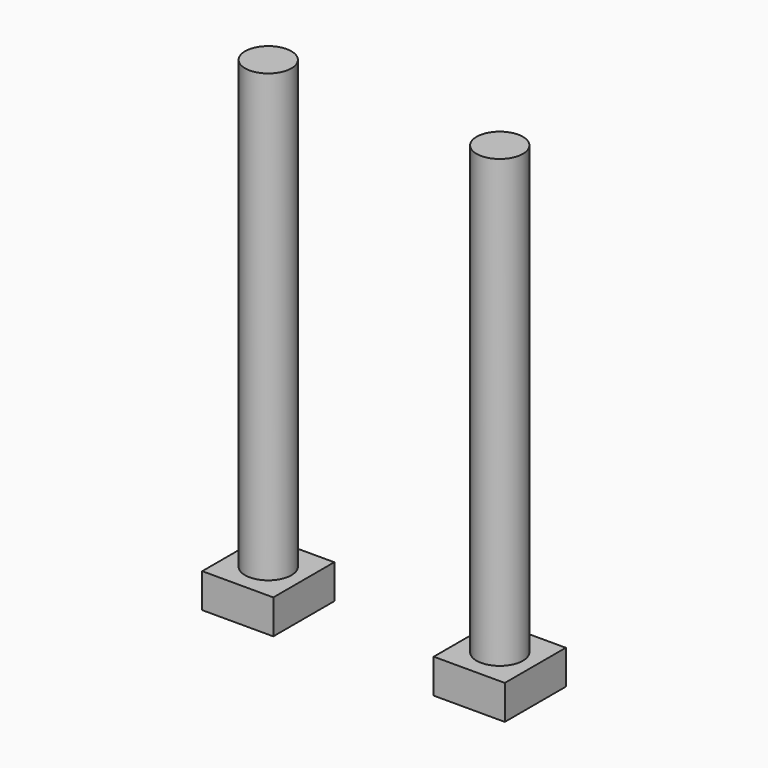
from build123d import *

# Parameters (mm, degrees)
F0_W     = 5.2578
F0_H     = 5.6388
F0_R     = 1.79705
F1_DEPTH = 2.54
F2_R     = 1.7145
F3_DEPTH = 33.02
F4_R     = 1.7145
F5_DEPTH = 33.02


with BuildPart() as f1:
    # F0 (on Top) → F1 (new body)
    with BuildSketch(Plane.XY):
        Rectangle(F0_W, F0_H)
        Circle(F0_R, mode=Mode.SUBTRACT)
        with Locations((17.130228, 0)):
            Rectangle(F0_W, F0_H)
        with Locations((17.130228, 0)):
            Circle(F0_R, mode=Mode.SUBTRACT)
        Circle(F0_R)
        with Locations((17.130228, 0)):
            Circle(F0_R)
    extrude(amount=F1_DEPTH)

    # F2 (on face) → F3 (join)
    with BuildSketch(Plane.XY.offset(2.54)):
        Circle(F2_R)
    extrude(amount=F3_DEPTH)

    # F4 (on face) → F5 (join)
    with BuildSketch(Plane.XY.offset(2.54)):
        with Locations((17.130228, 0)):
            Circle(F4_R)
    extrude(amount=F5_DEPTH)


solid = f1.part
